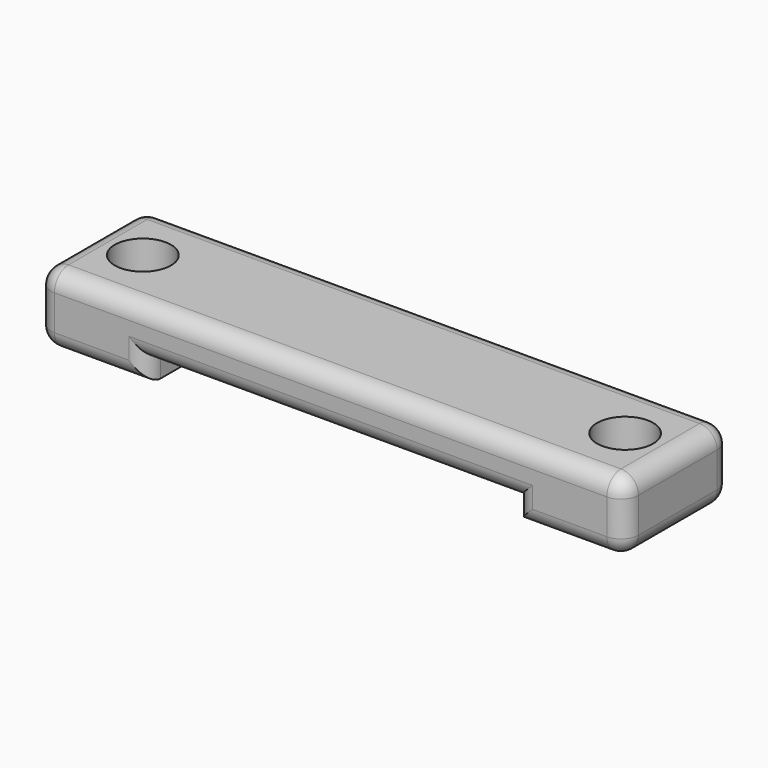
from build123d import *

# Parameters (mm, degrees)
F0_W     = 6
F0_H     = 7.6
F0_R     = 1.6
F0_W_2   = 0.25
F0_W_3   = 21
F1_DEPTH = 4
F2_DEPTH = 1.2
F3_R     = 1


with BuildPart() as f1:
    # F0 (on Top) → F1 (new body)
    with BuildSketch(Plane.XY):
        with Locations((-13.75, 0)):
            Rectangle(F0_W, F0_H)
        with Locations((-13.75, 0)):
            Circle(F0_R, mode=Mode.SUBTRACT)
        with Locations((13.75, 0)):
            Rectangle(F0_W, F0_H)
        with Locations((13.75, 0)):
            Circle(F0_R, mode=Mode.SUBTRACT)
        with Locations((-10.625, 0)):
            Rectangle(F0_W_2, F0_H)
        Rectangle(F0_W_3, F0_H)
        with Locations((10.625, 0)):
            Rectangle(F0_W_2, F0_H)
    extrude(amount=F1_DEPTH)

    # F0 (on Top) → F2 (cut)
    with BuildSketch(Plane.XY):
        Rectangle(F0_W_3, F0_H)
    extrude(amount=F2_DEPTH, mode=Mode.SUBTRACT)

    # F3
    f3_edges = [f1.edges().sort_by_distance(p)[0] for p in [
        (-13.625, -3.8, 0),
        (-10.5, -3.8, 0.6),
        (0, -3.8, 1.2),
        (10.5, -3.8, 0.6),
        (13.625, -3.8, 0),
        (16.75, -3.8, 2),
        (0, -3.8, 4),
        (-16.75, -3.8, 2),
        (-16.75, 3.8, 2),
        (0, 3.8, 4),
        (16.75, 3.8, 2),
        (13.625, 3.8, 0),
        (10.5, 3.8, 0.6),
        (0, 3.8, 1.2),
        (-10.5, 3.8, 0.6),
        (-13.625, 3.8, 0),
        (16.75, 0, 0),
        (16.75, 0, 4),
        (-16.75, 0, 0),
        (-16.75, 0, 4),
    ]]
    fillet(f3_edges, radius=F3_R)


solid = f1.part
